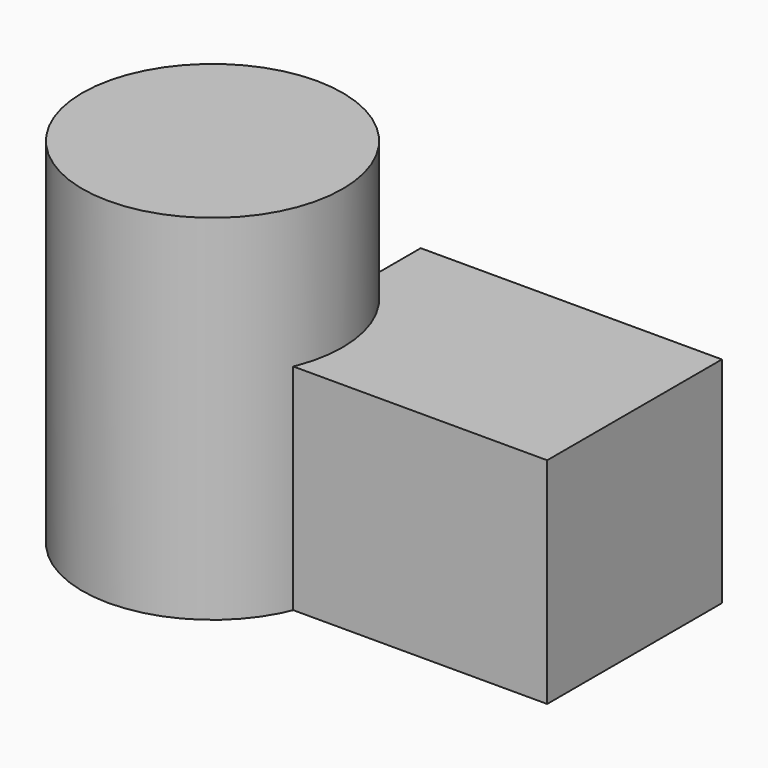
from build123d import *

# Parameters (mm, degrees)
F0_W     = 113.049254
F0_H     = 81.982374
F1_DEPTH = 80.534155
F2_R     = 48.847359
F3_DEPTH = 132.858204


with BuildPart() as f1:
    # F0 (on Top) → F1 (new body)
    with BuildSketch(Plane.XY):
        with Locations((-0.823177, -1.077488)):
            Rectangle(F0_W, F0_H)
    extrude(amount=F1_DEPTH)


with BuildPart() as f3:
    # F2 (on Top) → F3 (new body)
    with BuildSketch(Plane.XY):
        with Locations((-84.749418, -23.52223)):
            Circle(F2_R)
        with Locations((-84.749418, -23.52223)):
            Circle(F2_R)
    extrude(amount=F3_DEPTH)


solid = Compound([f1.part, f3.part])
